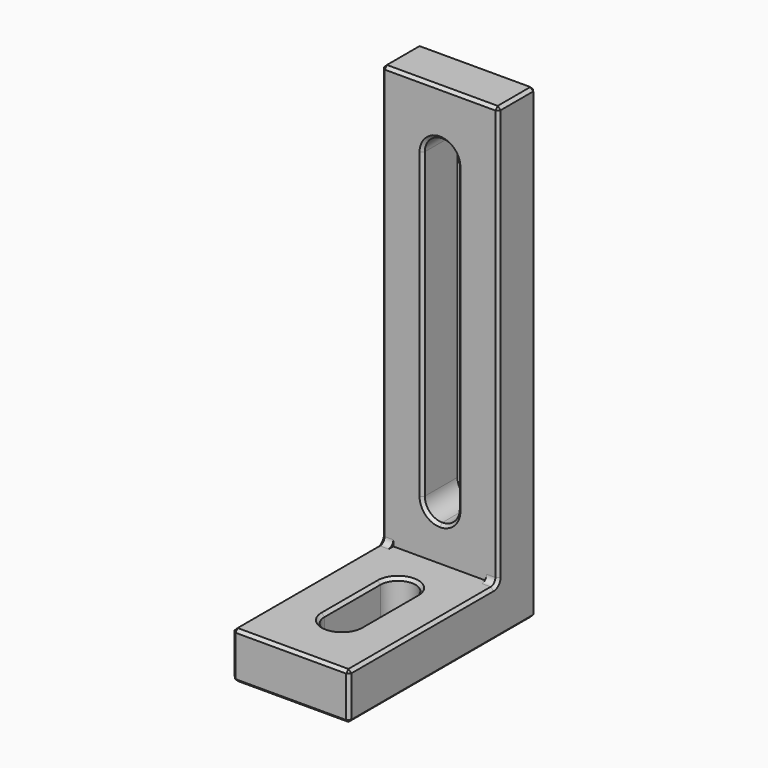
from build123d import *

# Parameters (mm, degrees)
F1_DEPTH = 20
F2_R     = 1
F3_W     = 16
F3_H     = 1
F4_DEPTH = 25
F6_DEPTH = 25
F8_DEPTH = 25
F9_SIZE  = 0.5


with BuildPart() as f1:
    # F0 (on Right) → F1 (new body)
    with BuildSketch(Plane.YZ):
        Polygon((-40, 0), (0, 0), (0, 80), (-8, 80), (-8, 8), (-40, 8), align=None)
    extrude(amount=F1_DEPTH)

    # F2
    f2_edges = [f1.edges().sort_by_distance(p)[0] for p in [
        (10, -8, 8),
    ]]
    fillet(f2_edges, radius=F2_R)

    # F3 (on face) → F4 (cut)
    with BuildSketch(Plane.XY.offset(8)):
        with Locations((10, -8.5)):
            Rectangle(F3_W, F3_H)
    extrude(amount=F4_DEPTH, mode=Mode.SUBTRACT)

    # F5 (on face) → F6 (cut)
    with BuildSketch(Plane.XY.offset(8)):
        with BuildLine():
            Line((7, -17), (7, -29))
            ThreePointArc((7, -29), (10, -32), (13, -29))
            Line((13, -29), (13, -17))
            ThreePointArc((13, -17), (10, -14), (7, -17))
        make_face()
    extrude(amount=-F6_DEPTH, mode=Mode.SUBTRACT)

    # F7 (on face) → F8 (cut)
    with BuildSketch(Plane.XZ.offset(8)):
        with BuildLine():
            ThreePointArc((13, 69), (12.12132, 71.12132), (10, 72))
            Line((10, 72), (10, 14))
            ThreePointArc((10, 14), (12.12132, 14.87868), (13, 17))
            Line((13, 17), (13, 69))
        make_face()
        with BuildLine():
            Line((10, 14), (10, 72))
            ThreePointArc((10, 72), (7.87868, 71.12132), (7, 69))
            Line((7, 69), (7, 17))
            ThreePointArc((7, 17), (7.87868, 14.87868), (10, 14))
        make_face()
    extrude(amount=-F8_DEPTH, mode=Mode.SUBTRACT)

    # F9
    f9_edges = [f1.edges().sort_by_distance(p)[0] for p in [
        (10, 0, 80),
        (10, -8, 80),
        (0, -4, 80),
        (20, -4, 80),
        (10, -40, 8),
        (10, -40, 0),
        (0, -40, 4),
        (20, -40, 4),
        (20, -8, 44.5),
        (20, -8.292893, 8.292893),
        (20, -24.5, 8),
        (20, 0, 40),
        (20, -20, 0),
        (0, -8, 44.5),
        (0, -8.292893, 8.292893),
        (0, -24.5, 8),
        (0, 0, 40),
        (0, -20, 0),
        (7, -8, 43),
        (7, 0, 43),
        (7, -23, 0),
        (7, -23, 8),
        (10, 0, 0),
    ]]
    chamfer(f9_edges, length=F9_SIZE)


solid = f1.part
